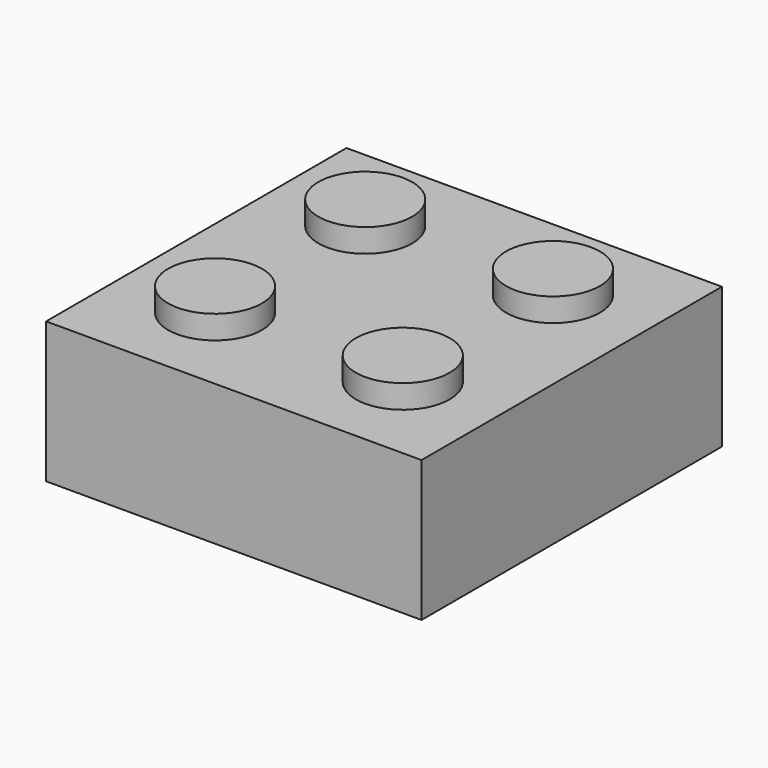
from build123d import *

# Parameters (mm, degrees)
CYLINDER007_R     = 2.2
CYLINDER007_DEPTH = 7
CYLINDER005_R     = 2.2
CYLINDER005_DEPTH = 7
CYLINDER006_R     = 2.2
CYLINDER006_DEPTH = 7
CYLINDER004_R     = 2.2
CYLINDER004_DEPTH = 7
CYLINDER_R        = 2
CYLINDER_DEPTH    = 7
CYLINDER001_R     = 2
CYLINDER001_DEPTH = 7
CYLINDER002_R     = 2
CYLINDER002_DEPTH = 7
CYLINDER003_R     = 2
CYLINDER003_DEPTH = 7
BOX_W             = 16
BOX_H             = 16
BOX_DEPTH         = 6


with BuildPart() as cylinder007:
    # Cylinder007 → Cylinder007 (new body)
    with BuildSketch(Plane(origin=(12, 12, -5), x_dir=(1, 0, 0), z_dir=(0, 0, 1))):
        Circle(CYLINDER007_R)
    extrude(amount=CYLINDER007_DEPTH)


with BuildPart() as cylinder005:
    # Cylinder005 → Cylinder005 (new body)
    with BuildSketch(Plane(origin=(4, 12, -5), x_dir=(1, 0, 0), z_dir=(0, 0, 1))):
        Circle(CYLINDER005_R)
    extrude(amount=CYLINDER005_DEPTH)


with BuildPart() as cylinder006:
    # Cylinder006 → Cylinder006 (new body)
    with BuildSketch(Plane(origin=(12, 4, -5), x_dir=(1, 0, 0), z_dir=(0, 0, 1))):
        Circle(CYLINDER006_R)
    extrude(amount=CYLINDER006_DEPTH)


with BuildPart() as fusion001:
    # Cylinder004 → Cylinder004 (new body)
    with BuildSketch(Plane(origin=(4, 4, -5), x_dir=(1, 0, 0), z_dir=(0, 0, 1))):
        Circle(CYLINDER004_R)
    extrude(amount=CYLINDER004_DEPTH)

    # Fusion001: union Cylinder007, Cylinder005, Cylinder006
    add(cylinder007.part)
    add(cylinder005.part)
    add(cylinder006.part)


with BuildPart() as cylinder:
    # Cylinder → Cylinder (new body)
    with BuildSketch(Plane(origin=(4, 4, 0), x_dir=(1, 0, 0), z_dir=(0, 0, 1))):
        Circle(CYLINDER_R)
    extrude(amount=CYLINDER_DEPTH)


with BuildPart() as cylinder001:
    # Cylinder001 → Cylinder001 (new body)
    with BuildSketch(Plane(origin=(12, 4, 0), x_dir=(1, 0, 0), z_dir=(0, 0, 1))):
        Circle(CYLINDER001_R)
    extrude(amount=CYLINDER001_DEPTH)


with BuildPart() as cylinder002:
    # Cylinder002 → Cylinder002 (new body)
    with BuildSketch(Plane(origin=(12, 12, 0), x_dir=(1, 0, 0), z_dir=(0, 0, 1))):
        Circle(CYLINDER002_R)
    extrude(amount=CYLINDER002_DEPTH)


with BuildPart() as cylinder003:
    # Cylinder003 → Cylinder003 (new body)
    with BuildSketch(Plane(origin=(4, 12, 0), x_dir=(1, 0, 0), z_dir=(0, 0, 1))):
        Circle(CYLINDER003_R)
    extrude(amount=CYLINDER003_DEPTH)


with BuildPart() as cut:
    # Box → Box (new body)
    with BuildSketch(Plane.XY):
        with Locations((8, 8)):
            Rectangle(BOX_W, BOX_H)
    extrude(amount=BOX_DEPTH)

    # Fusion: union Cylinder, Cylinder001, Cylinder002, Cylinder003
    add(cylinder.part)
    add(cylinder001.part)
    add(cylinder002.part)
    add(cylinder003.part)

    # Cut: cut Fusion001
    add(fusion001.part, mode=Mode.SUBTRACT)


solid = cut.part
